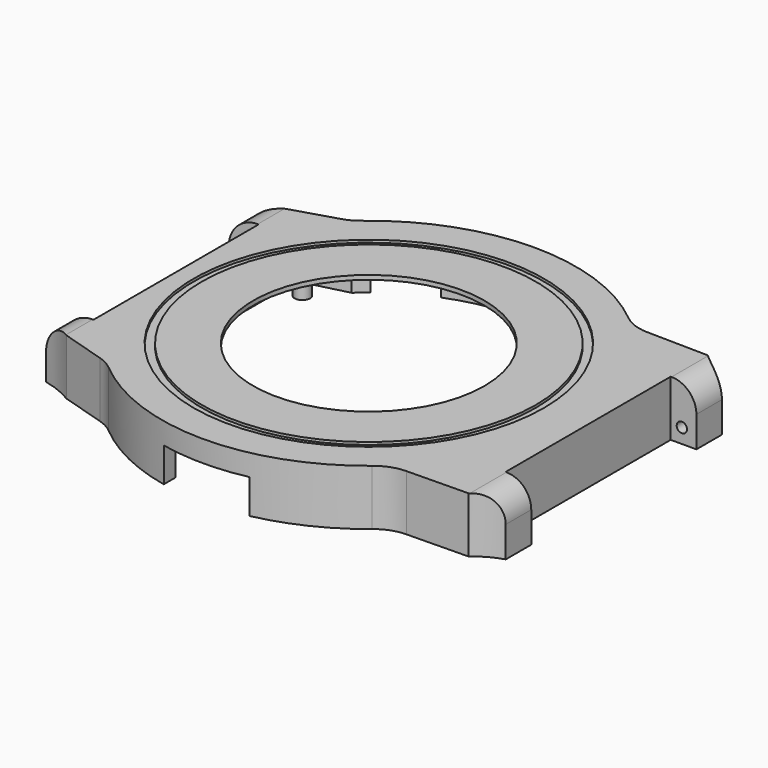
from build123d import *

# Parameters (mm, degrees)
PAD_DEPTH       = 6.5
POCKET_DEPTH    = 6
SKETCH002_R     = 13.5
POCKET001_DEPTH = 1
SKETCH003_W     = 5.4
SKETCH003_H     = 6.5
PAD001_DEPTH    = 3
POCKET002_DEPTH = 10
SKETCH008_R     = 0.6
POCKET003_DEPTH = 2
SKETCH009_R     = 0.6
POCKET004_DEPTH = 2
FILLET_R        = 2.9
FILLET001_R     = 2.9
FILLET002_R     = 5
FILLET003_R     = 5
FILLET004_R     = 5
FILLET005_R     = 5
SKETCH010_W     = 3.95
SKETCH010_H     = 6.5
PAD002_DEPTH    = 3.5
POCKET005_DEPTH = 10
SKETCH012_R     = 0.6
POCKET006_DEPTH = 2
SKETCH013_R     = 0.6
POCKET007_DEPTH = 2
FILLET006_R     = 3.4
FILLET007_R     = 3.4
SKETCH014_R     = 20.45
SKETCH014_R_2   = 19.5
POCKET008_DEPTH = 0.3
SKETCH015_R     = 0.9
PAD003_DEPTH    = 6
FILLET008_R     = 1
POCKET009_DEPTH = 4
POCKET010_DEPTH = 4


with BuildPart() as part:
    # Sketch → Pad (new body)
    with BuildSketch(Plane.XY):
        with BuildLine():
            Line((-22.5019915649, 16), (-22.5019915649, -16))
            Line((-22.5019915649, -16), (-16.2858834578, -17.9))
            ThreePointArc((-16.2858834578, -17.9), (0.2206895736, -24.1989937004), (16.6096357576, -17.6))
            Line((16.6096357576, -17.6), (25.6083856708, -17.45))
            Line((25.6083856708, 17.45), (25.6083856708, -17.45))
            Line((16.6096357576, 17.6), (25.6083856708, 17.45))
            ThreePointArc((16.6096357576, 17.6), (0.2206895736, 24.1989937004), (-16.2858834578, 17.9))
            Line((-22.5019915649, 16), (-16.2858834578, 17.9))
        make_face()
    extrude(amount=PAD_DEPTH)

    # Sketch001 → Pocket (cut)
    with BuildSketch(Plane.XY):
        with BuildLine():
            Line((-15.2429491897, 16.55), (-20.5746937447, 15.2))
            Line((-20.5746937447, 15.2), (-20.5746937447, -15.2))
            Line((-20.5746937447, -15.2), (-15.2429491897, -16.55))
            ThreePointArc((-15.2429491897, -16.55), (0, -22.5), (15.2429491897, -16.55))
            Line((15.2429491897, -16.55), (23.5278752606, -16.05))
            Line((23.5278752606, 16.05), (23.5278752606, -16.05))
            Line((15.2429491897, 16.55), (23.5278752606, 16.05))
            ThreePointArc((15.2429491897, 16.55), (0, 22.5), (-15.2429491897, 16.55))
        make_face()
    extrude(amount=POCKET_DEPTH, mode=Mode.SUBTRACT)

    # Sketch002 (on Face19 of Pocket) → Pocket001 (cut)
    with BuildSketch(Plane(origin=(0, 0, 6), x_dir=(1, 0, 0), z_dir=(0, 0, -1))):
        Circle(SKETCH002_R)
    extrude(amount=-POCKET001_DEPTH, mode=Mode.SUBTRACT)

    # Sketch003 (on Face6 of Pocket001) → Pad001 (join)
    with BuildSketch(Plane.YZ.offset(25.6083856708)):
        with Locations((-14.75, 3.25)):
            Rectangle(SKETCH003_W, SKETCH003_H)
        with Locations((14.75, 3.25)):
            Rectangle(SKETCH003_W, SKETCH003_H)
    extrude(amount=PAD001_DEPTH)

    # Sketch006 → Pocket002 (cut)
    with BuildSketch(Plane.XY.offset(6.5)):
        with BuildLine():
            ThreePointArc((25.6083856708, 17.45), (27.0135397777, 16.4426436477), (28.6083856708, 15.775042373))
            Line((28.6083856708, 17.45), (28.6083856708, 15.775042373))
            Line((28.6083856708, 17.45), (25.6083856708, 17.45))
        make_face()
        with BuildLine():
            ThreePointArc((28.6083856708, -15.775042373), (27.0135397777, -16.4426436477), (25.6083856708, -17.45))
            Line((28.6083856708, -17.45), (25.6083856708, -17.45))
            Line((28.6083856708, -15.775042373), (28.6083856708, -17.45))
        make_face()
    extrude(amount=-POCKET002_DEPTH, mode=Mode.SUBTRACT)

    # Sketch008 (on Face27 of Pocket002) → Pocket003 (cut)
    with BuildSketch(Plane(origin=(0, -12.05, 0), x_dir=(-1, 0, 0), z_dir=(0, 1, 0))):
        with Locations((-26.9083856708, 1.7)):
            Circle(SKETCH008_R)
    extrude(amount=-POCKET003_DEPTH, mode=Mode.SUBTRACT)

    # Sketch009 (on Face26 of Pocket003) → Pocket004 (cut)
    with BuildSketch(Plane.XZ.offset(-12.05)):
        with Locations((26.9083856708, 1.7)):
            Circle(SKETCH009_R)
    extrude(amount=-POCKET004_DEPTH, mode=Mode.SUBTRACT)

    # Fillet
    fillet_edges = [part.edges().sort_by_distance(p)[0] for p in [
        (28.608386, -13.912521, 6.5),
    ]]
    fillet(fillet_edges, radius=FILLET_R)

    # Fillet001
    fillet001_edges = [part.edges().sort_by_distance(p)[0] for p in [
        (28.608386, 13.912521, 6.5),
    ]]
    fillet(fillet001_edges, radius=FILLET001_R)

    # Fillet002
    fillet002_edges = [part.edges().sort_by_distance(p)[0] for p in [
        (16.609636, -17.6, 3.25),
    ]]
    fillet(fillet002_edges, radius=FILLET002_R)

    # Fillet003
    fillet003_edges = [part.edges().sort_by_distance(p)[0] for p in [
        (16.609636, 17.6, 3.25),
    ]]
    fillet(fillet003_edges, radius=FILLET003_R)

    # Fillet004
    fillet004_edges = [part.edges().sort_by_distance(p)[0] for p in [
        (-16.285883, -17.9, 3.25),
    ]]
    fillet(fillet004_edges, radius=FILLET004_R)

    # Fillet005
    fillet005_edges = [part.edges().sort_by_distance(p)[0] for p in [
        (-16.285883, 17.9, 3.25),
    ]]
    fillet(fillet005_edges, radius=FILLET005_R)

    # Sketch010 (on Face4 of Fillet005) → Pad002 (join)
    with BuildSketch(Plane(origin=(-22.5019915649, 0, 0), x_dir=(0, -1, 0), z_dir=(-1, 0, 0))):
        with Locations((-14.025, 3.25)):
            Rectangle(SKETCH010_W, SKETCH010_H)
        with Locations((14.025, 3.25)):
            Rectangle(SKETCH010_W, SKETCH010_H)
    extrude(amount=PAD002_DEPTH)

    # Sketch011 (on Face6 of Pad002) → Pocket005 (cut)
    with BuildSketch(Plane.XY.offset(6.5)):
        with BuildLine():
            ThreePointArc((-26.0019915649, 14.6), (-24.1926075875, 15.1515400564), (-22.5019915649, 16))
            Line((-22.5019915649, 16), (-26.0019915649, 16))
            Line((-26.0019915649, 16), (-26.0019915649, 14.6))
        make_face()
        with BuildLine():
            ThreePointArc((-22.5019915649, -16), (-24.1926075875, -15.1515400564), (-26.0019915649, -14.6))
            Line((-26.0019915649, -14.6), (-26.0019915649, -16))
            Line((-26.0019915649, -16), (-22.5019915649, -16))
        make_face()
    extrude(amount=-POCKET005_DEPTH, mode=Mode.SUBTRACT)

    # Sketch012 (on Face23 of Pocket005) → Pocket006 (cut)
    with BuildSketch(Plane(origin=(0, -12.05, 0), x_dir=(-1, 0, 0), z_dir=(0, 1, 0))):
        with Locations((24.3019915649, 1.7)):
            Circle(SKETCH012_R)
    extrude(amount=-POCKET006_DEPTH, mode=Mode.SUBTRACT)

    # Sketch013 (on Face21 of Pocket006) → Pocket007 (cut)
    with BuildSketch(Plane.XZ.offset(-12.05)):
        with Locations((-24.3019915649, 1.7)):
            Circle(SKETCH013_R)
    extrude(amount=-POCKET007_DEPTH, mode=Mode.SUBTRACT)

    # Fillet006
    fillet006_edges = [part.edges().sort_by_distance(p)[0] for p in [
        (-26.001992, 13.325, 6.5),
    ]]
    fillet(fillet006_edges, radius=FILLET006_R)

    # Fillet007
    fillet007_edges = [part.edges().sort_by_distance(p)[0] for p in [
        (-26.001992, -13.325, 6.5),
    ]]
    fillet(fillet007_edges, radius=FILLET007_R)

    # Sketch014 (on Face4 of Fillet007) → Pocket008 (cut)
    with BuildSketch(Plane.XY.offset(6.5)):
        Circle(SKETCH014_R)
        Circle(SKETCH014_R_2, mode=Mode.SUBTRACT)
    extrude(amount=-POCKET008_DEPTH, mode=Mode.SUBTRACT)

    # Sketch015 (on Face55 of Pocket008) → Pad003 (join)
    with BuildSketch(Plane(origin=(0, 0, 6), x_dir=(1, 0, 0), z_dir=(0, 0, -1))):
        with Locations((-18.42, 13.32)):
            Circle(SKETCH015_R)
        with Locations((-18.42, -13.32)):
            Circle(SKETCH015_R)
        with Locations((7.27, 18.56)):
            Circle(SKETCH015_R)
        with Locations((5.37, -19.79)):
            Circle(SKETCH015_R)
    extrude(amount=PAD003_DEPTH)

    # Fillet008
    fillet008_edges = [part.edges().sort_by_distance(p)[0] for p in [
        (-19.32, -13.32, 6),
        (6.37, -18.56, 6),
        (-19.32, 13.32, 6),
        (4.47, 19.79, 6),
    ]]
    fillet(fillet008_edges, radius=FILLET008_R)

    # Sketch016 (on Face16 of Fillet008) → Pocket009 (cut)
    with BuildSketch(Plane(origin=(0, 0, 0), x_dir=(1, 0, 0), z_dir=(0, 0, -1))):
        with BuildLine():
            Line((-5, 23.6778377391), (-5, 21.9374109685))
            ThreePointArc((5, 21.9374109685), (0, 22.5), (-5, 21.9374109685))
            Line((5, 23.6778377391), (5, 21.9374109685))
            ThreePointArc((5, 23.6778377391), (0, 24.2), (-5, 23.6778377391))
        make_face()
    extrude(amount=-POCKET009_DEPTH, mode=Mode.SUBTRACT)

    # Sketch017 (on Face16 of Pocket009) → Pocket010 (cut)
    with BuildSketch(Plane(origin=(0, 0, 0), x_dir=(1, 0, 0), z_dir=(0, 0, -1))):
        with BuildLine():
            Line((-3.499984119, -22.2261132717), (-3.5, -23.9455632634))
            ThreePointArc((-3.5, -23.9455632634), (0, -24.2000019575), (3.5, -23.9455632634))
            Line((3.5000158811, -22.2261082701), (3.5, -23.9455632634))
            ThreePointArc((-3.499984119, -22.2261132717), (1.60767e-05, -22.5), (3.5000158811, -22.2261082701))
        make_face()
        with BuildLine():
            ThreePointArc((-13.9498796389, -17.6536358312), (-11.25, -19.4855715851), (-8.3135572795, -20.9077680626))
            Line((-8.3135572795, -20.9077680626), (-8.9416927184, -22.487466094))
            ThreePointArc((-15.0038705449, -18.987466094), (-12.1, -20.9578147716), (-8.9416927184, -22.487466094))
            Line((-13.9498796389, -17.6536358312), (-15.0038705449, -18.987466094))
        make_face()
        with BuildLine():
            ThreePointArc((8.3135572795, -20.9077680626), (11.25, -19.4855715851), (13.9498796389, -17.6536358312))
            Line((13.9498796389, -17.6536358312), (15.0038705449, -18.987466094))
            ThreePointArc((8.9416927184, -22.487466094), (12.1, -20.9578147716), (15.0038705449, -18.987466094))
            Line((8.3135572795, -20.9077680626), (8.9416927184, -22.487466094))
        make_face()
    extrude(amount=-POCKET010_DEPTH, mode=Mode.SUBTRACT)


solid = part.part
